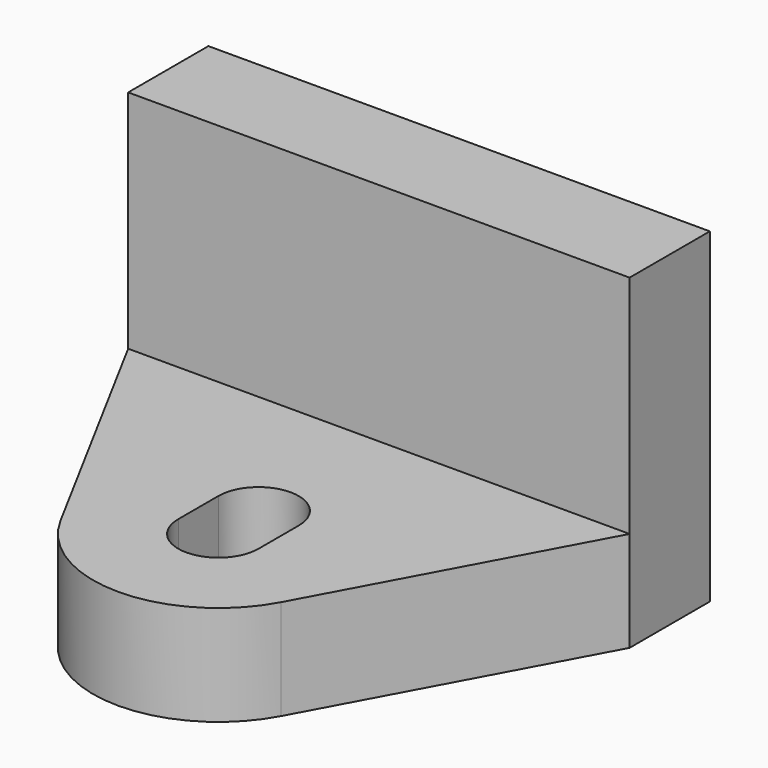
from build123d import *

# Parameters (mm, degrees)
F1_DEPTH = 4
F0_W     = 20
F0_H     = 4
F2_DEPTH = 13


with BuildPart() as f1:
    # F0 (on Top) → F1 (new body)
    with BuildSketch(Plane.XY):
        with BuildLine():
            Line((4.399958, -12.374947), (10, -2))
            Line((10, -2), (-10, -2))
            Line((-10, -2), (-4.399958, -12.374947))
            ThreePointArc((-4.399958, -12.374947), (0, -15), (4.399958, -12.374947))
        make_face()
        with BuildLine():
            Line((-1.6, -10), (-1.6, -8))
            ThreePointArc((-1.6, -8), (0, -6.4), (1.6, -8))
            Line((1.6, -8), (1.6, -10))
            ThreePointArc((1.6, -10), (0, -11.6), (-1.6, -10))
        make_face(mode=Mode.SUBTRACT)
    extrude(amount=F1_DEPTH)

    # F0 (on Top) → F2 (join)
    with BuildSketch(Plane.XY):
        Rectangle(F0_W, F0_H)
    extrude(amount=F2_DEPTH)


solid = f1.part
